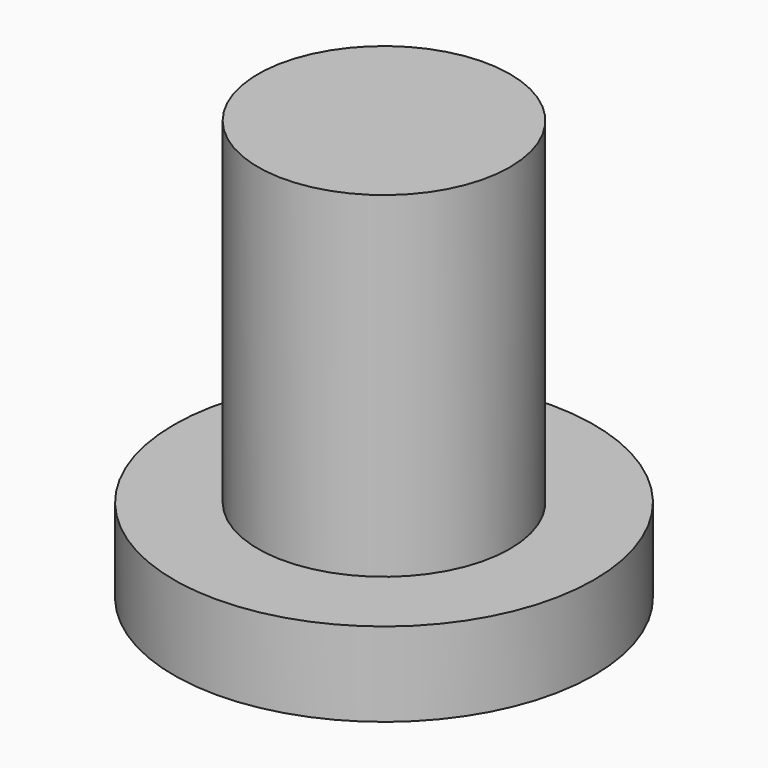
from build123d import *

# Parameters (mm, degrees)
CYLINDER014_R     = 2.5
CYLINDER014_DEPTH = 1
CYLINDER013_R     = 1.5
CYLINDER013_DEPTH = 5


with BuildPart() as button_base:
    # Cylinder014 → Cylinder014 (new body)
    with BuildSketch(Plane(origin=(50, 7, 37), x_dir=(1, 0, 0), z_dir=(0, 0, 1))):
        Circle(CYLINDER014_R)
    extrude(amount=CYLINDER014_DEPTH)


with BuildPart() as button001:
    # Cylinder013 → Cylinder013 (new body)
    with BuildSketch(Plane(origin=(50, 7, 37), x_dir=(1, 0, 0), z_dir=(0, 0, 1))):
        Circle(CYLINDER013_R)
    extrude(amount=CYLINDER013_DEPTH)

    # Fusion009: union button_base
    add(button_base.part)


with BuildPart() as button001_1:
    # Fusion009 placement: moved
    add(button001.part.moved(Location((0, 0, 1))))


solid = button001_1.part
